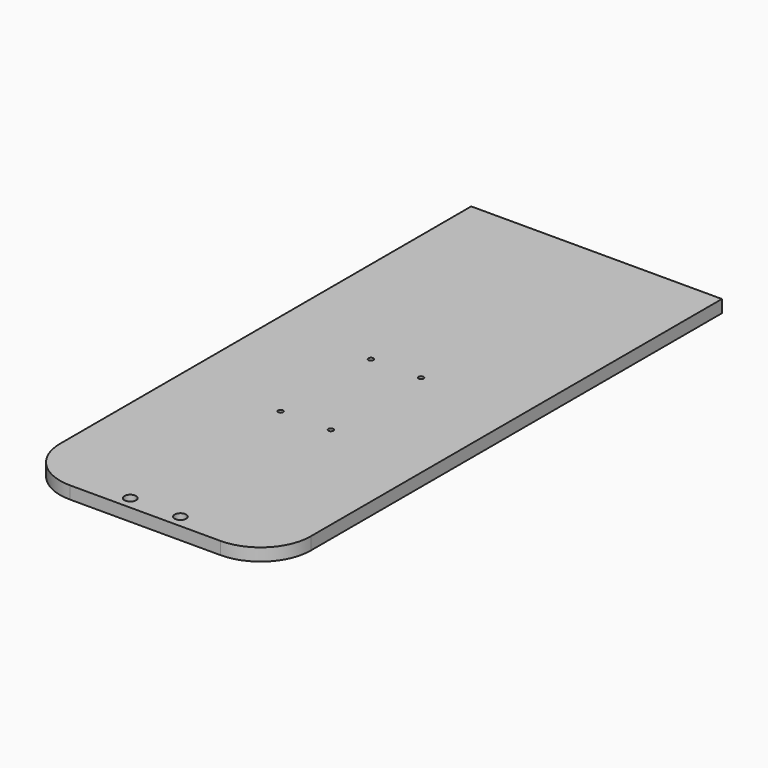
from build123d import *

# Parameters (mm, degrees)
F0_W     = 100
F0_H     = 90
F0_H_2   = 95
F0_R     = 1
F0_R_2   = 2.327232
F0_R_3   = 2.29342
F1_DEPTH = 5


with BuildPart() as f1:
    # F0 (on Top) → F1 (new body)
    with BuildSketch(Plane.XY):
        with Locations((11.097754, 57.674246)):
            Rectangle(F0_W, F0_H)
        with Locations((11.097754, -34.825754)):
            Rectangle(F0_W, F0_H_2)
        with Locations((1.097754, -42.325754)):
            Circle(F0_R, mode=Mode.SUBTRACT)
        with Locations((21.097754, -42.325754)):
            Circle(F0_R, mode=Mode.SUBTRACT)
        with Locations((1.097754, 2.674246)):
            Circle(F0_R, mode=Mode.SUBTRACT)
        with Locations((21.097754, 2.674246)):
            Circle(F0_R, mode=Mode.SUBTRACT)
        with BuildLine():
            Line((61.097754, -82.325754), (-38.902246, -82.325754))
            Line((-38.902246, -82.325754), (-38.902246, -102.325754))
            ThreePointArc((-38.902246, -102.325754), (-33.044382, -116.46789), (-18.902246, -122.325754))
            Line((-18.902246, -122.325754), (41.097754, -122.325754))
            ThreePointArc((41.097754, -122.325754), (55.239889, -116.46789), (61.097754, -102.325754))
            Line((61.097754, -102.325754), (61.097754, -82.325754))
        make_face()
        with Locations((1.097754, -117.325754)):
            Circle(F0_R_2, mode=Mode.SUBTRACT)
        with Locations((21.097754, -117.325754)):
            Circle(F0_R_3, mode=Mode.SUBTRACT)
    extrude(amount=F1_DEPTH)


solid = f1.part
